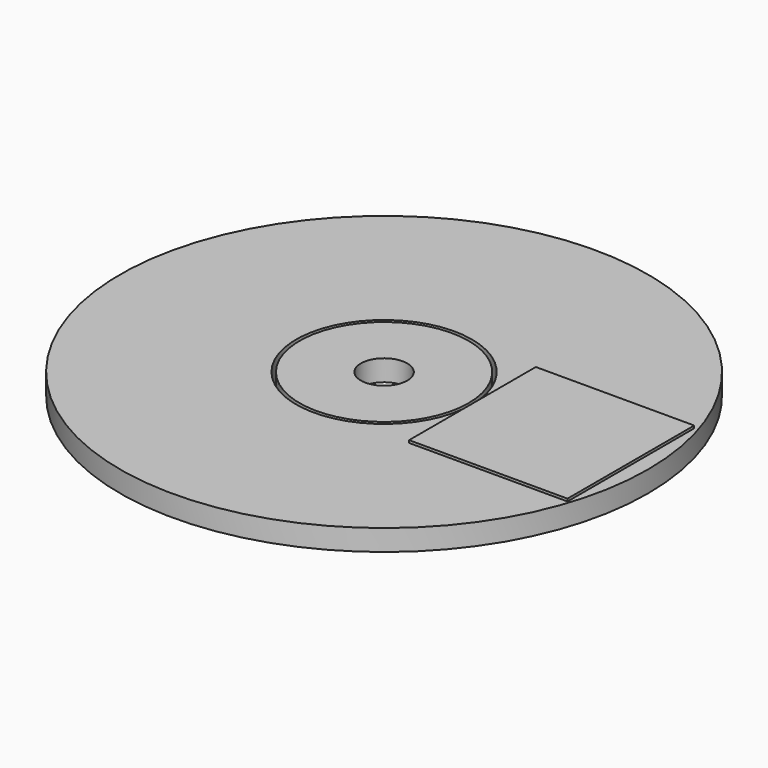
from build123d import *

# Parameters (mm, degrees)
F0_R     = 37.5
F0_R_2   = 12.5
F1_DEPTH = 3
F2_R     = 12
F2_R_2   = 3.3
F3_DEPTH = 3
F4_W     = 22.5
F4_H     = 22.5
F5_DEPTH = 0.36


with BuildPart() as f1:
    # F0 (on Top) → F1 (new body)
    with BuildSketch(Plane.XY):
        Circle(F0_R)
        Circle(F0_R_2, mode=Mode.SUBTRACT)
    extrude(amount=F1_DEPTH)


with BuildPart() as f3:
    # F2 (on Top) → F3 (new body)
    with BuildSketch(Plane.XY):
        Circle(F2_R)
        Circle(F2_R_2, mode=Mode.SUBTRACT)
    extrude(amount=F3_DEPTH)


with BuildPart() as f5:
    # F4 (on face) → F5 (new body)
    with BuildSketch(Plane.XY.offset(3)):
        with Locations((24.079939, -0.339978)):
            Rectangle(F4_W, F4_H)
    extrude(amount=F5_DEPTH)


solid = Compound([f1.part, f3.part, f5.part])
